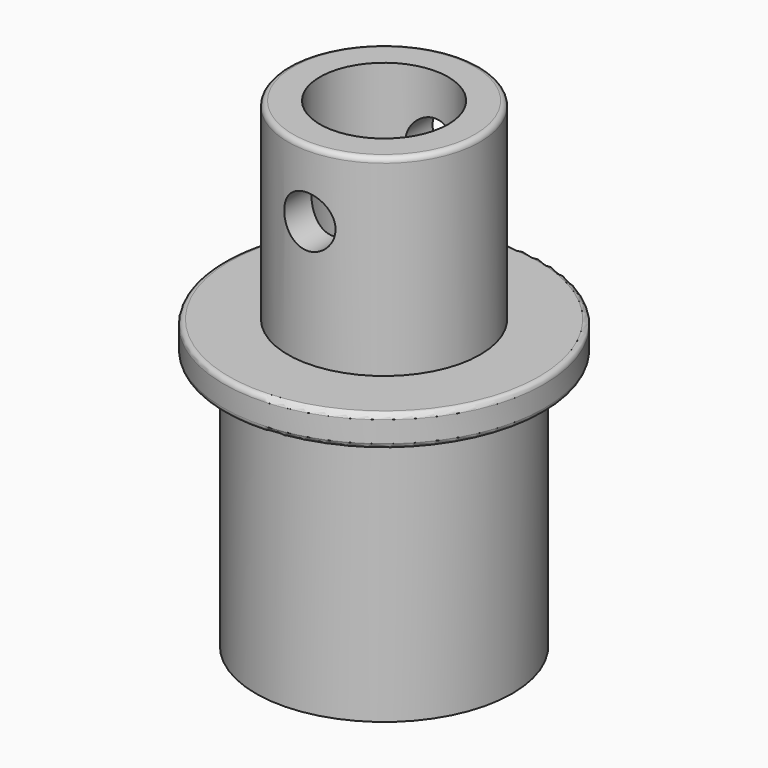
from build123d import *

# Parameters (mm, degrees)
F0_R      = 6.35
F1_DEPTH  = 12.7
F2_R      = 7.9375
F3_DEPTH  = 1.55575
F4_R      = 4.7625
F5_DEPTH  = 9.525
F6_R      = 0.254
F7_R      = 1.27
F8_DEPTH  = 12.7
F9_R      = 3.175
F10_DEPTH = 23.78175


with BuildPart() as f1:
    # F0 (on Top) → F1 (new body)
    with BuildSketch(Plane.XY):
        Circle(F0_R)
    extrude(amount=-F1_DEPTH)

    # F2 (on face) → F3 (join)
    with BuildSketch(Plane.XY):
        Circle(F2_R)
    extrude(amount=F3_DEPTH)

    # F4 (on face) → F5 (join)
    with BuildSketch(Plane.XY.offset(1.55575)):
        Circle(F4_R)
    extrude(amount=F5_DEPTH)

    # F6
    f6_edges = [f1.edges().sort_by_distance(p)[0] for p in [
        (-7.9375, 0, 1.55575),
        (-7.9375, 0, 0),
        (-4.7625, 0, 11.08075),
    ]]
    fillet(f6_edges, radius=F6_R)

    # F7 (on Front) → F8 (cut, symmetric)
    with BuildSketch(Plane.XZ):
        with Locations((0, 7.7444682829)):
            Circle(F7_R)
    extrude(amount=F8_DEPTH, both=True, mode=Mode.SUBTRACT)

    # F9 (on face) → F10 (cut, through all)
    with BuildSketch(Plane.XY.offset(11.08075)):
        Circle(F9_R)
    extrude(amount=-F10_DEPTH, mode=Mode.SUBTRACT)


solid = f1.part
